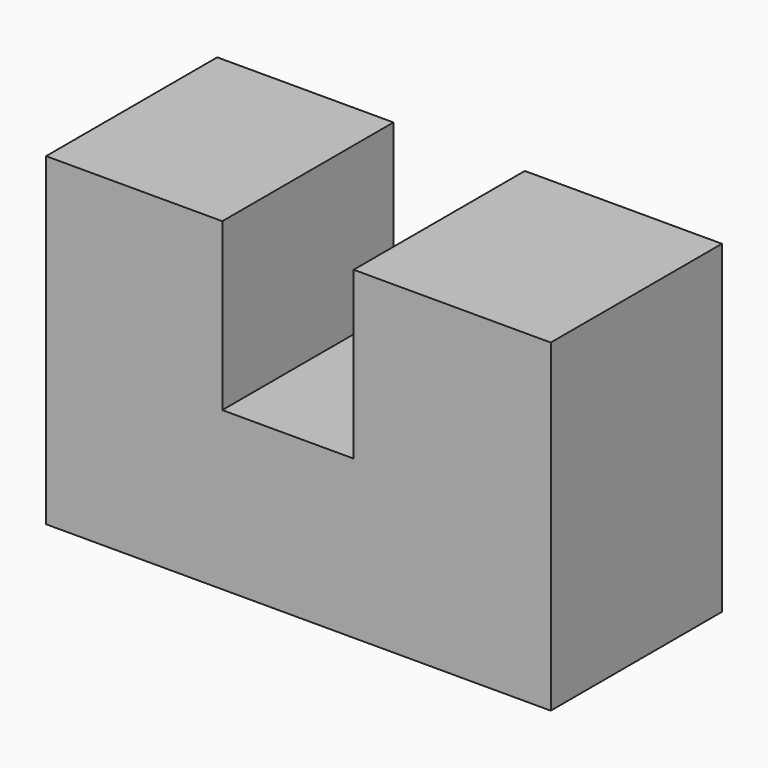
from build123d import *

# Parameters (mm, degrees)
F0_W     = 15.35
F0_H     = 18.44
F0_W_2   = 23.03
F0_H_2   = 19.43
F1_DEPTH = 25


with BuildPart() as f1:
    # F0 (on Front) → F1 (new body)
    with BuildSketch(Plane.XZ):
        Polygon((-56.524735, -13.918051), (-56.524735, -32.358051), (-35.934735, -32.358051), (-35.934735, -13.918051), (-35.934735, 5.511949), (-56.524735, 5.511949), align=None)
        with Locations((-28.259735, -23.138051)):
            Rectangle(F0_W, F0_H)
        with Locations((-9.069735, -23.138051)):
            Rectangle(F0_W_2, F0_H)
        with Locations((-9.069735, -4.203051)):
            Rectangle(F0_W_2, F0_H_2)
    extrude(amount=F1_DEPTH)


solid = f1.part
